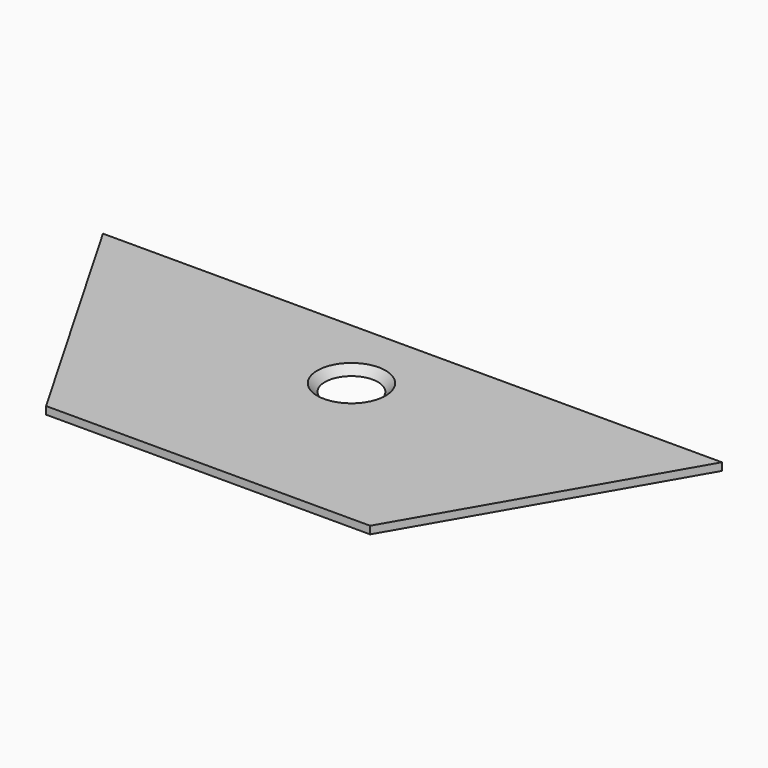
from build123d import *

# Parameters (mm, degrees)
F1_DEPTH       = 2
F3_D           = 8.8
F3_CSINK_D     = 17.92
F3_CSINK_ANGLE = 90


with BuildPart() as f1:
    # F0 (on Top) → F1 (new body)
    with BuildSketch(Plane.XY):
        Polygon((-81.1824680357, 67), (-42.5, 0), (42.5, 0), (81.1824680357, 67), align=None)
    extrude(amount=F1_DEPTH)

    # F3 (through all)
    with Locations(Plane.XY.offset(2)):
        with Locations((0, 47)):
            CounterSinkHole(F3_D / 2, F3_CSINK_D / 2, counter_sink_angle=F3_CSINK_ANGLE)


solid = f1.part
